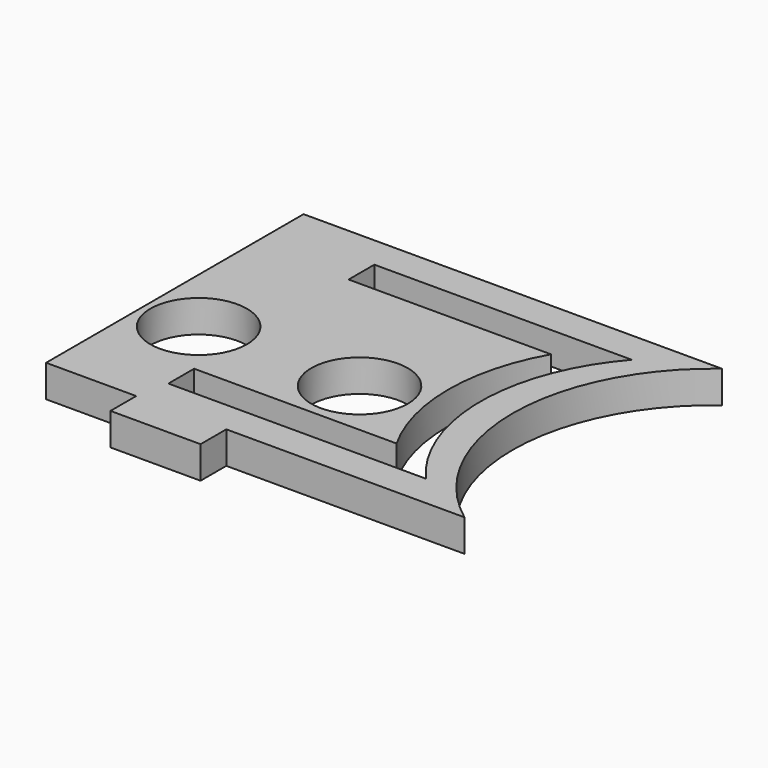
from build123d import *

# Parameters (mm, degrees)
F0_R     = 7.5
F1_DEPTH = 5


with BuildPart() as f1:
    # F0 (on Top) → F1 (new body)
    with BuildSketch(Plane.XY):
        Polygon((-4.5, -30), (-4.5, -25), (-11.5, -25), (-18.5, -25), (-18.5, -30), align=None)
        with BuildLine():
            Line((32.5, 25), (-32.5, 25))
            Line((-32.5, 25), (-32.5, -25))
            Line((-32.5, -25), (-24, -25))
            Line((-24, -25), (-18.5, -25))
            Line((-18.5, -25), (-11.5, -25))
            Line((-11.5, -25), (-4.5, -25))
            Line((-4.5, -25), (32.5, -25))
            ThreePointArc((32.5, -25), (20, 0), (32.5, 25))
        make_face()
        with Locations((-24, -6)):
            Circle(F0_R, mode=Mode.SUBTRACT)
        with Locations((1, -6)):
            Circle(F0_R, mode=Mode.SUBTRACT)
        with BuildLine():
            Line((-17.5, 20), (22.499891, 20))
            ThreePointArc((22.499891, 20), (15.000055, -2e-05), (22.5, -20))
            Line((22.5, -20), (-17.5, -20))
            Line((-17.5, -20), (-17.5, -15))
            Line((-17.5, -15), (13.956, -15))
            ThreePointArc((13.956, -15), (10.000089, -2.3e-05), (13.955823, 15))
            Line((13.955823, 15), (-17.5, 15))
            Line((-17.5, 15), (-17.5, 20))
        make_face(mode=Mode.SUBTRACT)
    extrude(amount=F1_DEPTH)


solid = f1.part
